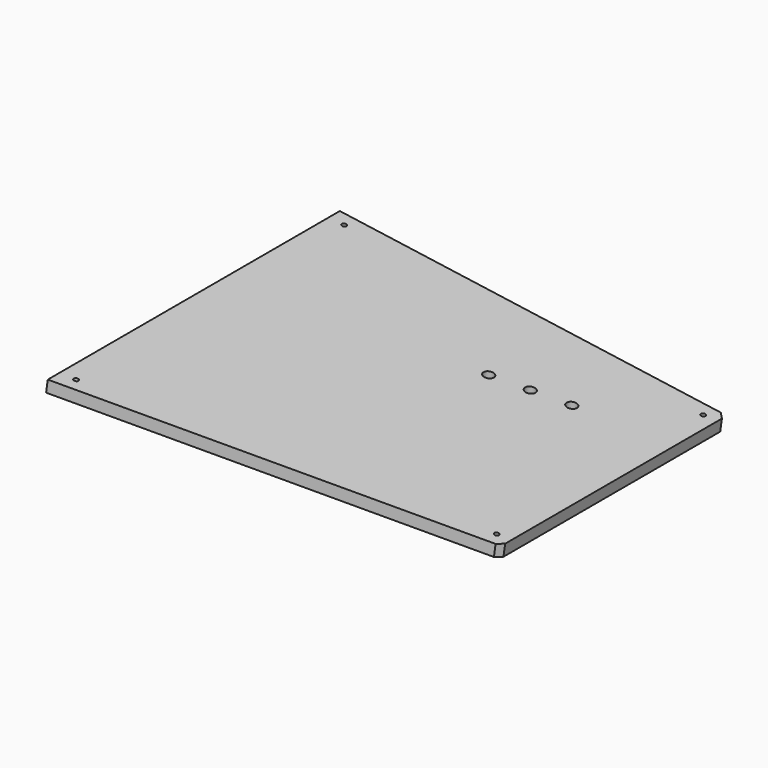
from build123d import *

# Parameters (mm, degrees)
SKETCH022_AS_DRAWN_R                      = 2.7
EXTRUDE013_DEPTH                          = 25.4
EXTRUDE013_ONTO_SKETCH022_PLACEMENT_ANGLE = 8
SKETCH018_AS_DRAWN_R                      = 1.2
EXTRUDE009_DEPTH                          = 7.8
EXTRUDE009_ONTO_SKETCH018_PLACEMENT_ANGLE = 8
EXTRUDE012_DEPTH                          = 6.35
EXTRUDE012_ONTO_SKETCH021_PLACEMENT_ANGLE = 8


with BuildPart() as top_led_holes:
    # Sketch022 as drawn → Extrude013 (new, symmetric)
    with BuildSketch(Plane.XY):
        with Locations((116.082414, 49.440535)):
            Circle(SKETCH022_AS_DRAWN_R)
        with Locations((97.448702, 45.479818)):
            Circle(SKETCH022_AS_DRAWN_R)
        with Locations((78.81499, 41.5191)):
            Circle(SKETCH022_AS_DRAWN_R)
    extrude(amount=EXTRUDE013_DEPTH, both=True)


with BuildPart() as top_led_holes_1:
    # Extrude013 onto Sketch022 placement: moved
    add(top_led_holes.part.moved(Location((42.3672, 0, 47.625))).rotate(Axis((42.3672, 0, 47.625), (0, 1, 0)), EXTRUDE013_ONTO_SKETCH022_PLACEMENT_ANGLE))


with BuildPart() as screw_hole_cuts:
    # Sketch018 as drawn → Extrude009 (new)
    with BuildSketch(Plane.XY):
        with Locations((-31.998318, 84.649891)):
            Circle(SKETCH018_AS_DRAWN_R)
        with Locations((-31.998318, -89.695043)):
            Circle(SKETCH018_AS_DRAWN_R)
        with Locations((156.654735, -49.595599)):
            Circle(SKETCH018_AS_DRAWN_R)
        with Locations((156.654735, 84.649891)):
            Circle(SKETCH018_AS_DRAWN_R)
    extrude(amount=EXTRUDE009_DEPTH)


with BuildPart() as screw_hole_cuts_1:
    # Extrude009 onto Sketch018 placement: moved
    add(screw_hole_cuts.part.moved(Location((39.98734, 0, 30.691416))).rotate(Axis((39.98734, 0, 30.691416), (0, 1, 0)), EXTRUDE009_ONTO_SKETCH018_PLACEMENT_ANGLE))


with BuildPart() as cut006:
    # Sketch021 as drawn → Extrude012 (new)
    with BuildSketch(Plane.XY):
        Polygon((-39.826537, 91.531891), (-39.826537, -98.44048), (161.021837, -55.74884), (163.536735, -52.643218), (163.536735, 88.356895), (160.361736, 91.531891), align=None)
    extrude(amount=EXTRUDE012_DEPTH)


with BuildPart() as cut006_1:
    # Extrude012 onto Sketch021 placement: moved
    add(cut006.part.moved(Location((40.182182, 0, 32.077791))).rotate(Axis((40.182182, 0, 32.077791), (0, 1, 0)), EXTRUDE012_ONTO_SKETCH021_PLACEMENT_ANGLE))

    # Cut004: cut Screw Hole Cuts
    add(screw_hole_cuts_1.part, mode=Mode.SUBTRACT)

    # Cut006: cut Top LED Holes
    add(top_led_holes_1.part, mode=Mode.SUBTRACT)


solid = cut006_1.part
